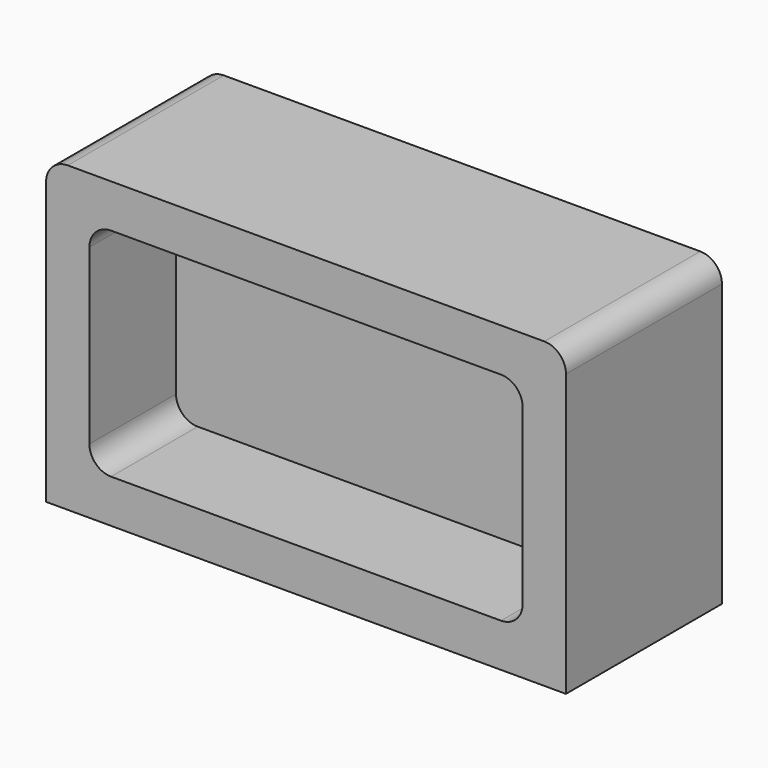
from build123d import *

# Parameters (mm, degrees)
F4_W     = 24
F4_H     = 14
F5_DEPTH = 9
F6_W     = 20
F6_H     = 10
F7_DEPTH = 5
F8_R     = 1


with BuildPart() as f5:
    # F4 (on Front) → F5 (new body)
    with BuildSketch(Plane.XZ):
        with Locations((0, 7)):
            Rectangle(F4_W, F4_H)
    extrude(amount=F5_DEPTH)

    # F6 (on face) → F7 (cut)
    with BuildSketch(Plane.XZ.offset(9)):
        with Locations((0, 7)):
            Rectangle(F6_W, F6_H)
    extrude(amount=-F7_DEPTH, mode=Mode.SUBTRACT)

    # F8
    f8_edges = [f5.edges().sort_by_distance(p)[0] for p in [
        (-12, -4.5, 14),
        (12, -4.5, 14),
        (-10, -6.5, 12),
        (10, -6.5, 12),
        (10, -6.5, 2),
        (-10, -6.5, 2),
    ]]
    fillet(f8_edges, radius=F8_R)


solid = f5.part
